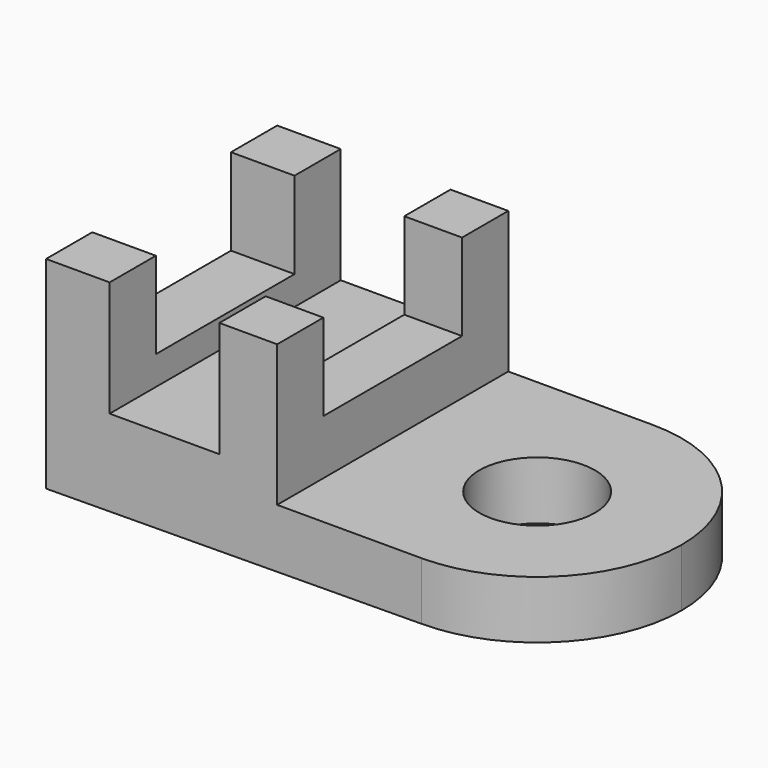
from build123d import *

# Parameters (mm, degrees)
F1_DEPTH = 63.5
F3_DEPTH = 12.7
F4_R     = 12.7
F6_DEPTH = 25.4
F5_W     = 38.1
F5_H     = 19.05
F7_DEPTH = 50.801


with BuildPart() as f1:
    # F0 (on Front) → F1 (new body)
    with BuildSketch(Plane.XZ):
        Polygon((5.667796, 17.475092), (-8.302204, 17.475092), (-8.302204, -26.974908), (74.245038, -26.300137), (74.245038, -13.600137), (42.497796, -13.600137), (42.497796, 17.475092), (29.797796, 17.475092), (29.797796, -7.924908), (5.667796, -7.924908), align=None)
    extrude(amount=F1_DEPTH)

    # F2 (on face) → F3 (join)
    with BuildSketch(Plane.XY.offset(-13.600137)):
        with BuildLine():
            ThreePointArc((74.245038, -63.5), (96.695679, -54.20064), (105.995038, -31.75))
            ThreePointArc((105.995038, -31.75), (96.695679, -9.29936), (74.245038, 0))
            Line((74.245038, 0), (74.245038, -63.5))
        make_face()
    extrude(amount=-F3_DEPTH)

    # F4 (on face) → F6 (cut)
    with BuildSketch(Plane.XY.offset(-13.600137)):
        with Locations((74.245038, -31.75)):
            Circle(F4_R)
    extrude(amount=-F6_DEPTH, mode=Mode.SUBTRACT)

    # F5 (on face) → F7 (cut, through all)
    with BuildSketch(Plane.YZ.offset(42.497796)):
        with Locations((-31.75, 7.950092)):
            Rectangle(F5_W, F5_H)
    extrude(amount=-F7_DEPTH, mode=Mode.SUBTRACT)


solid = f1.part
